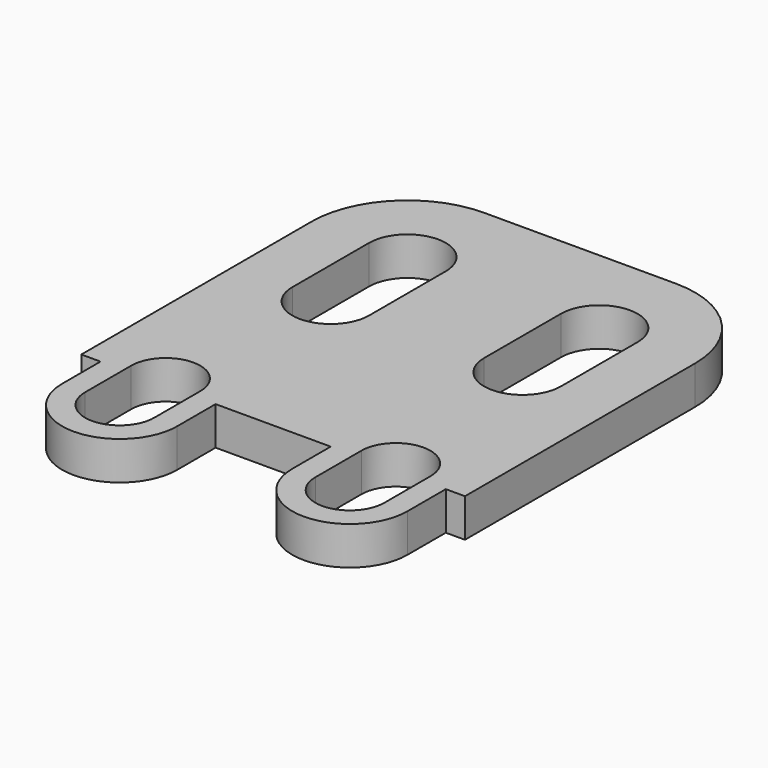
from build123d import *

# Parameters (mm, degrees)
PAD041_DEPTH    = 2
PAD042_DEPTH    = 2
POCKET014_DEPTH = 2.001


with BuildPart() as part:
    # Sketch064 → Pad041 (new body)
    with BuildSketch(Plane.XY):
        with BuildLine():
            Line((-5, 21), (5, 21))
            ThreePointArc((10, 16), (8.535534, 19.535534), (5, 21))
            Line((10, 16), (10, 1))
            Line((10, 1), (-10, 1))
            Line((-10, 1), (-10, 16))
            ThreePointArc((-5, 21), (-8.535534, 19.535534), (-10, 16))
        make_face()
        with BuildLine():
            ThreePointArc((-3, 16), (-5, 18), (-7, 16))
            Line((-7, 16), (-7, 11))
            ThreePointArc((-7, 11), (-5, 9), (-3, 11))
            Line((-3, 16), (-3, 11))
        make_face(mode=Mode.SUBTRACT)
        with BuildLine():
            ThreePointArc((7, 16), (5, 18), (3, 16))
            Line((3, 16), (3, 11))
            ThreePointArc((3, 11), (5, 9), (7, 11))
            Line((7, 16), (7, 11))
        make_face(mode=Mode.SUBTRACT)
    extrude(amount=PAD041_DEPTH)

    # Sketch065 → Pad042 (join)
    with BuildSketch(Plane.XY):
        with BuildLine():
            ThreePointArc((-3, 1.5), (-6, 4.5), (-9, 1.5))
            Line((-9, 1.5), (-9, -1.5))
            ThreePointArc((-9, -1.5), (-6, -4.5), (-3, -1.5))
            Line((-3, 1.5), (-3, -1.5))
        make_face()
        with BuildLine():
            ThreePointArc((9, 1.5), (6, 4.5), (3, 1.5))
            Line((3, 1.5), (3, -1.5))
            ThreePointArc((3, -1.5), (6, -4.5), (9, -1.5))
            Line((9, 1.5), (9, -1.5))
        make_face()
    extrude(amount=PAD042_DEPTH)

    # Sketch066 → Pocket014 (cut, through all)
    with BuildSketch(Plane.XY):
        with BuildLine():
            ThreePointArc((-4.2, 1.5), (-6, 3.3), (-7.8, 1.5))
            Line((-7.8, 1.5), (-7.8, -1.5))
            ThreePointArc((-7.8, -1.5), (-6, -3.3), (-4.2, -1.5))
            Line((-4.2, 1.5), (-4.2, -1.5))
        make_face()
        with BuildLine():
            ThreePointArc((7.8, 1.5), (6, 3.3), (4.2, 1.5))
            Line((4.2, 1.5), (4.2, -1.5))
            ThreePointArc((4.2, -1.5), (6, -3.3), (7.8, -1.5))
            Line((7.8, 1.5), (7.8, -1.5))
        make_face()
    extrude(amount=POCKET014_DEPTH, mode=Mode.SUBTRACT)


with BuildPart() as part_1:
    # Body013 placement: moved
    add(part.part.moved(Location((-16, 2, -8.5))))


solid = part_1.part
